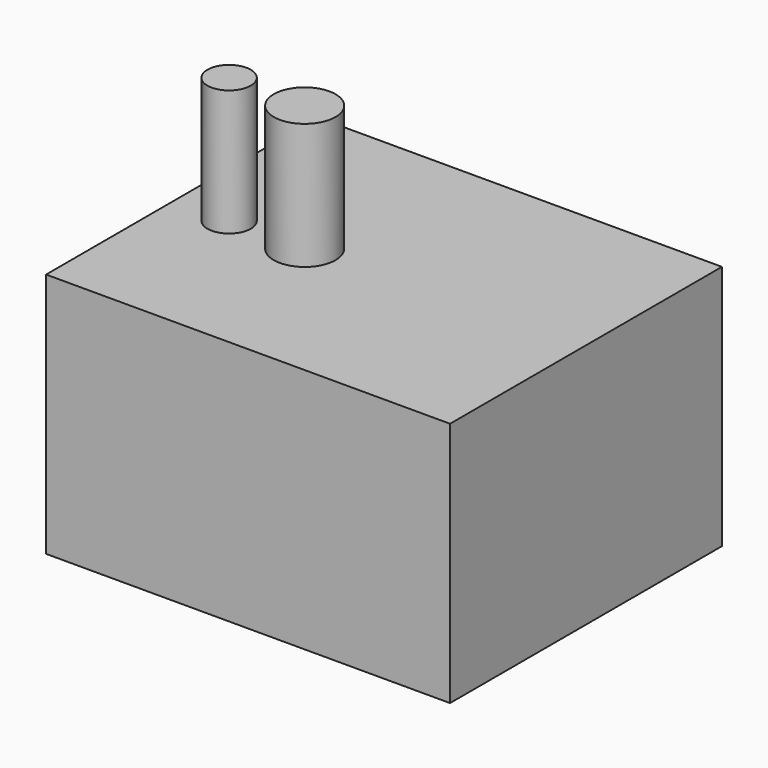
from build123d import *

# Parameters (mm, degrees)
F0_W     = 80.157895
F0_H     = 67.439113
F1_DEPTH = 48.8
F2_W     = 64.96834
F2_H     = 55.503204
F3_DEPTH = 20
F4_R     = 4.292628
F5_DEPTH = 25
F6_R     = 6.135078
F7_DEPTH = 25


with BuildPart() as f1:
    # F0 (on Top) → F1 (new body)
    with BuildSketch(Plane.XY):
        with Locations((2.218393, 1.922605)):
            Rectangle(F0_W, F0_H)
    extrude(amount=F1_DEPTH)

    # F2 (on face) → F3 (join)
    with BuildSketch(Plane.XY.offset(48.8)):
        with Locations((3.307585, 3.803581)):
            Rectangle(F2_W, F2_H)
    extrude(amount=-F3_DEPTH)

    # F4 (on face) → F5 (join)
    with BuildSketch(Plane.XY.offset(48.8)):
        with Locations((-26.979957, 0)):
            Circle(F4_R)
    extrude(amount=F5_DEPTH)

    # F6 (on face) → F7 (join)
    with BuildSketch(Plane.XY.offset(48.8)):
        with Locations((-11.984075, 0)):
            Circle(F6_R)
    extrude(amount=F7_DEPTH)


solid = f1.part
